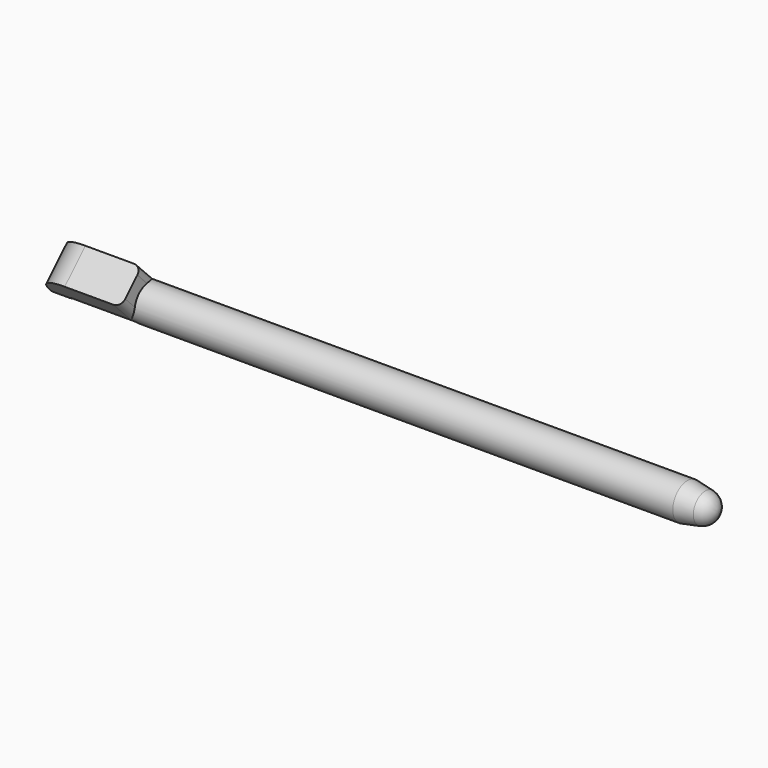
from build123d import *

# Parameters (mm, degrees)
SKETCH_R             = 2.4
PAD_DEPTH            = 87
SKETCH002_W          = 12
SKETCH002_H          = 5
PAD001_DEPTH         = 2.4
PAD001_DEPTH_BACK    = 2.4
POCKET_DEPTH         = 5
POCKET001_DEPTH      = 5
SKETCH005_R          = 2.4
PAD002_DEPTH         = 6
PAD003_DEPTH         = 0.75
PAD003_DEPTH_BACK    = 0.75
POCKET002_DEPTH      = 5
POCKET003_DEPTH      = 5
POCKET004_DEPTH      = 10
POCKET005_DEPTH      = 100
POCKET005_DEPTH_BACK = -100
BODY_PLACEMENT_ANGLE = 44.59


with BuildPart() as part:
    # Sketch → Pad (new body)
    with BuildSketch(Plane.YZ):
        Circle(SKETCH_R)
    extrude(amount=PAD_DEPTH)

    # Sketch001 → Groove (revolve, cut)
    with BuildSketch(Plane.XZ):
        with BuildLine():
            Line((87, 2.4), (83, 2.4))
            Line((83, 2.4), (85.360656, 1.967213))
            ThreePointArc((87, 0), (86.536443, 1.280369), (85.360656, 1.967213))
            Line((88, 0), (87, 0))
            Line((88, 2.4), (88, 0))
            Line((87, 2.4), (88, 2.4))
        make_face()
    revolve(axis=Axis((0, 0, 0), (1, 0, 0)), mode=Mode.SUBTRACT)

    # Sketch002 → Pad001 (join, two sides)
    with BuildSketch(Plane.XZ) as pad001_sk:
        with Locations((6, 2.5)):
            Rectangle(SKETCH002_W, SKETCH002_H)
    extrude(amount=PAD001_DEPTH)
    extrude(pad001_sk.sketch, amount=-PAD001_DEPTH_BACK)

    # Sketch003 (on Face5 of Pad001) → Pocket (cut)
    with BuildSketch(Plane(origin=(0, -2.4, 0), x_dir=(0, 0, -1), z_dir=(0, -1, 0))):
        with BuildLine():
            Line((-5, 0), (-5, 3))
            ThreePointArc((-5, 3), (-3.908916, 1.259301), (-2, 0.5))
            Line((-2, 0.5), (6, 0))
            Line((-2, 0), (6, 0))
            Line((-2, 0), (-5, 0))
        make_face()
    extrude(amount=-POCKET_DEPTH, mode=Mode.SUBTRACT)

    # Sketch004 (on Face7 of Pocket) → Pocket001 (cut)
    with BuildSketch(Plane(origin=(0, 0, 5), x_dir=(0, -1, 0), z_dir=(0, 0, 1))):
        with BuildLine():
            ThreePointArc((-1.4, 12), (-2.107107, 11.707107), (-2.4, 11))
            Line((-2.4, 11), (-2.4, 12))
            Line((-2.4, 12), (-1.4, 12))
        make_face()
        with BuildLine():
            ThreePointArc((2.4, 11), (2.107107, 11.707107), (1.4, 12))
            Line((2.4, 12), (1.4, 12))
            Line((2.4, 12), (2.4, 11))
        make_face()
    extrude(amount=-POCKET001_DEPTH, mode=Mode.SUBTRACT)

    # Sketch005 (on Face10 of Pocket001) → Pad002 (join)
    with BuildSketch(Plane(origin=(12, 0, 0), x_dir=(0, 1, 0), z_dir=(-1, 0, 0))):
        Circle(SKETCH005_R)
    extrude(amount=PAD002_DEPTH)

    # Sketch006 → Pad003 (join, two sides)
    with BuildSketch(Plane.XZ) as pad003_sk:
        with BuildLine():
            add(Edge.make_bspline(
                [(8, -2.4), (8, -1.533975), (6.875, -1.966987), (5.75, -2.4), (6.875, -2.833013), (8, -3.266025), (8, -2.4)],
                knots=[0, 0, 0, 2.094395, 2.094395, 4.18879, 4.18879, 6.283185, 6.283185, 6.283185], degree=2, weights=[1, 0.5, 1, 0.5, 1, 0.5, 1]))
        make_face()
    extrude(amount=PAD003_DEPTH)
    extrude(pad003_sk.sketch, amount=-PAD003_DEPTH_BACK)

    # Sketch007 (on Face8 of Pad003) → Pocket002 (cut)
    with BuildSketch(Plane(origin=(0, -2.4, 0), x_dir=(0, 0, -1), z_dir=(0, -1, 0))):
        with BuildLine():
            ThreePointArc((-4.2, 3.455854), (-3.386482, 1.401761), (-1.387135, 0.461696))
            Line((-5, 0.461696), (-1.387135, 0.461696))
            Line((-5, 12), (-5, 0.461696))
            Line((-4.2, 12), (-5, 12))
            Line((-4.2, 3.455854), (-4.2, 12))
        make_face()
    extrude(amount=-POCKET002_DEPTH, mode=Mode.SUBTRACT)

    # Sketch008 (on Face8 of Pocket002) → Pocket003 (cut)
    with BuildSketch(Plane(origin=(0, -2.4, 0), x_dir=(0, 0, -1), z_dir=(0, -1, 0))):
        with BuildLine():
            ThreePointArc((-4.2, 4.583194), (-3.061073, 1.707464), (-0.261987, 0.391374))
            Line((-0.261987, 0.391374), (-4.2, 0.6375))
            Line((-4.2, 4.583194), (-4.2, 0.6375))
        make_face()
    extrude(amount=-POCKET003_DEPTH, mode=Mode.SUBTRACT)

    # Sketch009 (on Face8 of Pocket003) → Pocket004 (cut)
    with BuildSketch(Plane(origin=(0, -2.4, 0), x_dir=(0, 0, -1), z_dir=(0, -1, 0))):
        with BuildLine():
            ThreePointArc((0, 3.25), (0.7, 2.55), (1.4, 3.25))
            Line((1.4, 3.25), (1.4, 11.25))
            ThreePointArc((1.4, 11.25), (0.7, 11.95), (0, 11.25))
            Line((0, 11.25), (0, 3.25))
        make_face()
    extrude(amount=-POCKET004_DEPTH, mode=Mode.SUBTRACT)

    # Sketch010 → Pocket005 (cut, two sides)
    with BuildSketch(Plane.YZ) as pocket005_sk:
        Polygon((-1.821564, -1.56266), (-0.465163, -2.9), (-1.821564, -2.9), align=None)
    extrude(amount=-POCKET005_DEPTH, mode=Mode.SUBTRACT)
    extrude(pocket005_sk.sketch, amount=-POCKET005_DEPTH_BACK, mode=Mode.SUBTRACT)


with BuildPart() as part_1:
    # Body placement: moved
    add(part.part.rotate(Axis((0, 0, 0), (1, 0, 0)), BODY_PLACEMENT_ANGLE))


solid = part_1.part
